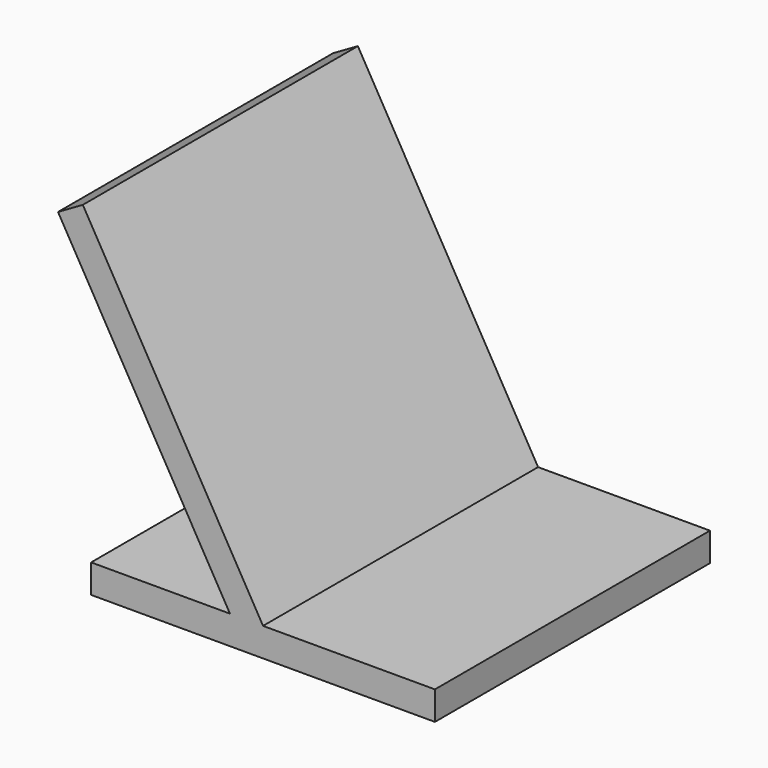
from build123d import *

# Parameters (mm, degrees)
F0_W     = 152.4
F0_H     = 152.4
F1_DEPTH = 12.7
F3_DEPTH = 76.2


with BuildPart() as f1:
    # F0 (on Top) → F1 (new body)
    with BuildSketch(Plane.XY):
        Rectangle(F0_W, F0_H)
    extrude(amount=-F1_DEPTH)

    # F2 (on Front) → F3 (join, symmetric)
    with BuildSketch(Plane.XZ):
        Polygon((-14.664697, 0), (0, 0), (-79.866174, 138.332272), (-90.864697, 131.982272), align=None)
    extrude(amount=F3_DEPTH, both=True)


solid = f1.part
